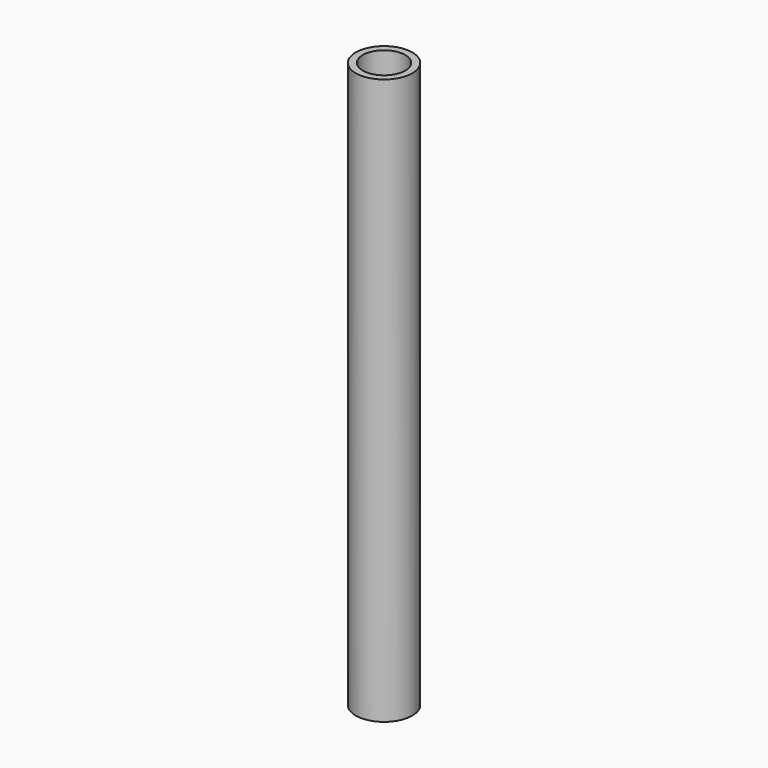
from build123d import *

# Parameters (mm, degrees)
F0_R     = 10
F1_DEPTH = 200
F4_D     = 3
F4_DEPTH = 100
F6_D     = 15
F6_DEPTH = 200


with BuildPart() as f1:
    # F0 (on Top) → F1 (new body)
    with BuildSketch(Plane.XY):
        Circle(F0_R)
    extrude(amount=F1_DEPTH)

    # F4
    with Locations(Plane(origin=(0, 0, 0), x_dir=(1, 0, 0), z_dir=(0, 0, -1))):
        with Locations((0, 0)):
            Hole(F4_D / 2, depth=F4_DEPTH)

    # F6
    with Locations(Plane.XY.offset(200)):
        with Locations((0, 0)):
            Hole(F6_D / 2, depth=F6_DEPTH)


solid = f1.part
